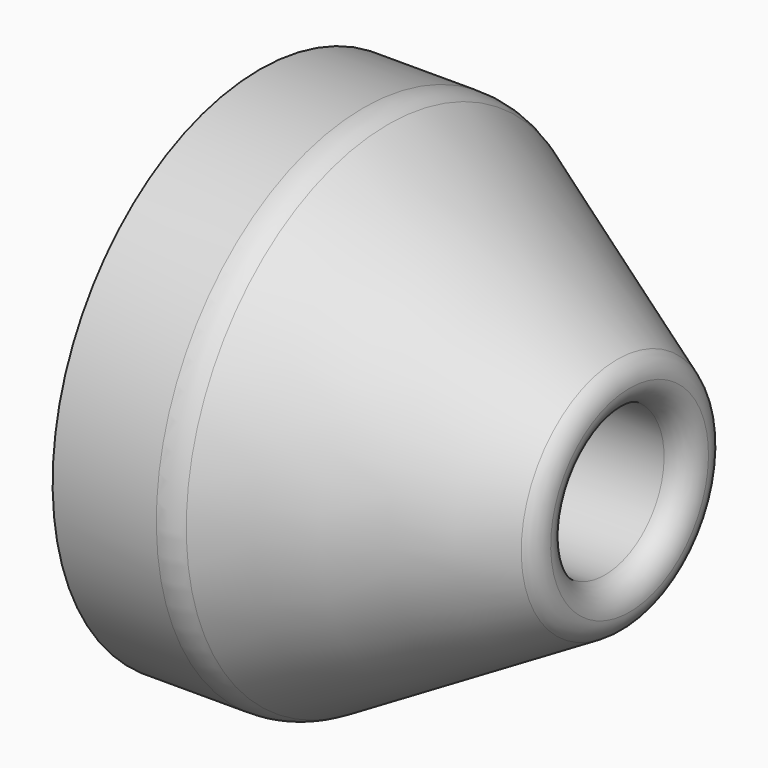
from build123d import *


with BuildPart() as f1:
    # F0 (on Front) → F1 (revolve)
    with BuildSketch(Plane.XZ):
        with BuildLine():
            Line((-32.942286, 105), (-75, 105))
            Line((-75, 105), (-75, 88.320389))
            Line((-75, 88.320389), (-55, 88.320389))
            Line((-55, 88.320389), (18.318778, 30))
            Line((18.318778, 30), (65, 30))
            ThreePointArc((65, 30), (72.071068, 32.928932), (75, 40))
            ThreePointArc((75, 40), (73.660254, 45), (70, 48.660254))
            Line((70, 48.660254), (-22.942286, 102.320508))
            ThreePointArc((-22.942286, 102.320508), (-27.765905, 104.318517), (-32.942286, 105))
        make_face()
    revolve(axis=Axis((-37.41489, 0, 0), (-1, 0, 0)))


solid = f1.part
